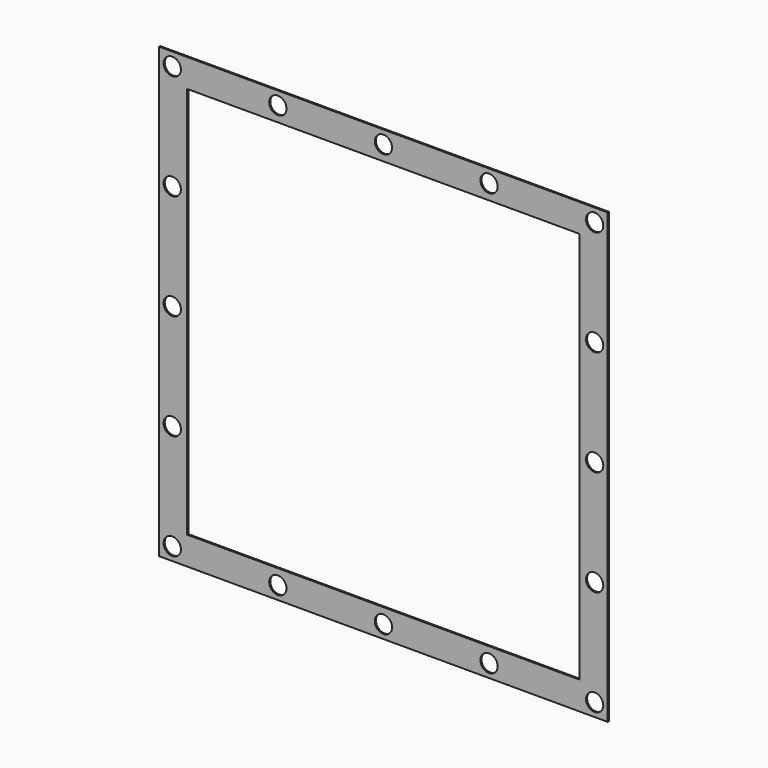
from build123d import *

# Parameters (mm, degrees)
F0_W     = 480
F0_H     = 480
F0_W_2   = 420
F0_H_2   = 420
F1_DEPTH = 1.5
F2_R     = 9.25
F3_DEPTH = 1.5


with BuildPart() as f1:
    # F0 (on Front) → F1 (new body)
    with BuildSketch(Plane.XZ):
        Rectangle(F0_W, F0_H)
        Rectangle(F0_W_2, F0_H_2, mode=Mode.SUBTRACT)
    extrude(amount=F1_DEPTH)

    # F2 (on face) → F3 (cut, through all)
    with BuildSketch(Plane.XZ.offset(1.5)):
        with Locations((-226, 226)):
            Circle(F2_R)
        with Locations((-113, 226)):
            Circle(F2_R)
        with Locations((0, 226)):
            Circle(F2_R)
        with Locations((113, 226)):
            Circle(F2_R)
        with Locations((226, 226)):
            Circle(F2_R)
        with Locations((-226, 113)):
            Circle(F2_R)
        with Locations((-226, 0)):
            Circle(F2_R)
        with Locations((-226, -113)):
            Circle(F2_R)
        with Locations((-226, -226)):
            Circle(F2_R)
        with Locations((-113, -226)):
            Circle(F2_R)
        with Locations((0, -226)):
            Circle(F2_R)
        with Locations((113, -226)):
            Circle(F2_R)
        with Locations((226, -226)):
            Circle(F2_R)
        with Locations((226, 113)):
            Circle(F2_R)
        with Locations((226, 0)):
            Circle(F2_R)
        with Locations((226, -113)):
            Circle(F2_R)
    extrude(amount=-F3_DEPTH, mode=Mode.SUBTRACT)


solid = f1.part
